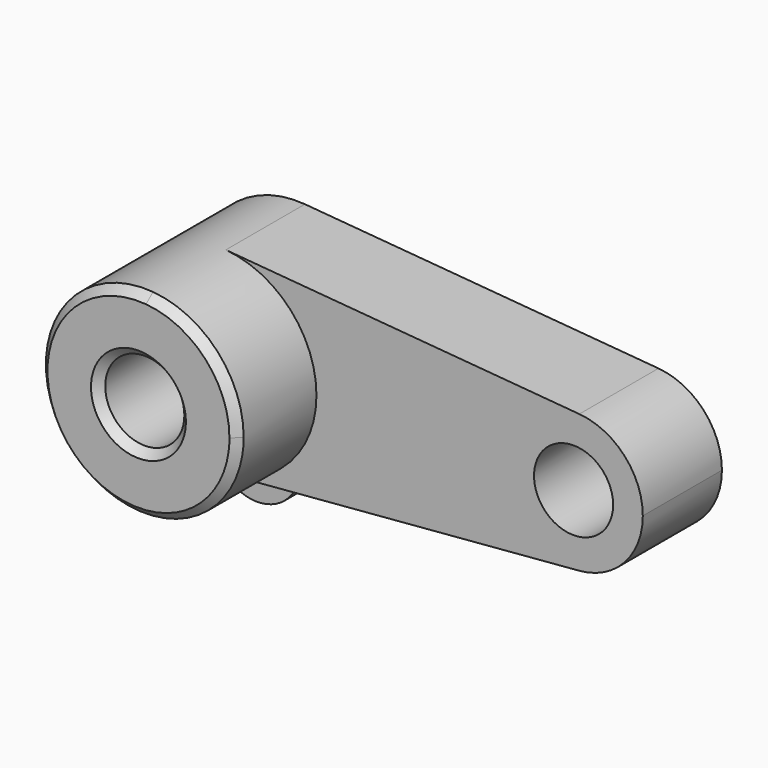
from build123d import *

# Parameters (mm, degrees)
F0_R     = 10
F1_DEPTH = 25
F2_DEPTH = 50
F3_SIZE  = 2
F5_DEPTH = 12.5
F6_DEPTH = 25


with BuildPart() as f1:
    # F0 (on Front) → F1 (new body)
    with BuildSketch(Plane.XZ):
        with BuildLine():
            ThreePointArc((2.0833333333, -24.9130432148), (18.3995018048, -16.9250800097), (25, 0))
            ThreePointArc((25, 0), (18.3995018048, 16.9250800097), (2.0833333333, 24.9130432148))
            ThreePointArc((2.0833333333, 24.9130432148), (-25, 0), (2.0833333333, -24.9130432148))
        make_face()
        Circle(F0_R, mode=Mode.SUBTRACT)
        with BuildLine():
            ThreePointArc((2.0833333333, 24.9130432148), (18.3995018048, 16.9250800097), (25, 0))
            ThreePointArc((25, 0), (18.3995018048, -16.9250800097), (2.0833333333, -24.9130432148))
            Line((2.0833333333, -24.9130432148), (91.4583333333, -17.4391302504))
            ThreePointArc((91.4583333333, -17.4391302504), (72.5, 0), (91.4583333333, 17.4391302504))
            Line((91.4583333333, 17.4391302504), (2.0833333333, 24.9130432148))
        make_face()
        with BuildLine():
            ThreePointArc((107.5, 0), (102.8796512634, 11.8475560068), (91.4583333333, 17.4391302504))
            ThreePointArc((91.4583333333, 17.4391302504), (72.5, 0), (91.4583333333, -17.4391302504))
            ThreePointArc((91.4583333333, -17.4391302504), (102.8796512634, -11.8475560068), (107.5, 0))
        make_face()
        with Locations((90, 0)):
            Circle(F0_R, mode=Mode.SUBTRACT)
    extrude(amount=F1_DEPTH)

    # F0 (on Front) → F2 (join)
    with BuildSketch(Plane.XZ):
        with BuildLine():
            ThreePointArc((2.0833333333, -24.9130432148), (18.3995018048, -16.9250800097), (25, 0))
            ThreePointArc((25, 0), (18.3995018048, 16.9250800097), (2.0833333333, 24.9130432148))
            ThreePointArc((2.0833333333, 24.9130432148), (-25, 0), (2.0833333333, -24.9130432148))
        make_face()
        Circle(F0_R, mode=Mode.SUBTRACT)
    extrude(amount=F2_DEPTH)

    # F3
    f3_edges = [f1.edges().sort_by_distance(p)[0] for p in [
        (-2.083333, -50, 24.913043),
        (-10, -50, 0),
        (80, -25, 0),
    ]]
    chamfer(f3_edges, length=F3_SIZE)

    # F4 (on face) → F5 (join, symmetric)
    with BuildSketch(Plane.XZ):
        with BuildLine():
            ThreePointArc((-5.4315853461, -16.6855811303), (-4.4015799273, -15.1101718832), (-4.0405321611, -13.2628846914))
            ThreePointArc((-4.0405321611, -13.2628846914), (-13.0639901523, -10.5943657369), (-6.9433212415, -17.7414770144))
            ThreePointArc((-6.9433212415, -17.7414770144), (-6.2099361746, -17.1813401242), (-5.4315853461, -16.6855811303))
        make_face()
        with BuildLine():
            ThreePointArc((-5.4315853461, -16.6855811303), (-6.2099361746, -17.1813401242), (-6.9433212415, -17.7414770144))
            ThreePointArc((-6.9433212415, -17.7414770144), (-6.1374016791, -17.2851884317), (-5.4315853461, -16.6855811303))
        make_face()
        with BuildLine():
            ThreePointArc((-5.4315853461, -16.6855811303), (-6.1374016791, -17.2851884317), (-6.9433212415, -17.7414770144))
            ThreePointArc((-6.9433212415, -17.7414770144), (-4.5995107108, -35.8932904795), (10.8448163239, -26.0721631348))
            ThreePointArc((10.8448163239, -26.0721631348), (5.4178176267, -16.6776278476), (-5.4315853461, -16.6855811303))
        make_face()
    extrude(amount=F5_DEPTH, both=True)

    # F0 (on Front) + F5_face (on face) → F6 (join)
    with BuildSketch(Plane.XZ):
        with BuildLine():
            ThreePointArc((2.0833333333, -24.9130432148), (18.3995018048, -16.9250800097), (25, 0))
            ThreePointArc((25, 0), (18.3995018048, 16.9250800097), (2.0833333333, 24.9130432148))
            ThreePointArc((2.0833333333, 24.9130432148), (-25, 0), (2.0833333333, -24.9130432148))
        make_face()
        Circle(F0_R, mode=Mode.SUBTRACT)
        with BuildLine():
            ThreePointArc((2.0833333333, 24.9130432148), (18.3995018048, 16.9250800097), (25, 0))
            ThreePointArc((25, 0), (18.3995018048, -16.9250800097), (2.0833333333, -24.9130432148))
            Line((2.0833333333, -24.9130432148), (91.4583333333, -17.4391302504))
            ThreePointArc((91.4583333333, -17.4391302504), (72.5, 0), (91.4583333333, 17.4391302504))
            Line((91.4583333333, 17.4391302504), (2.0833333333, 24.9130432148))
        make_face()
        with BuildLine():
            ThreePointArc((107.5, 0), (102.8796512634, 11.8475560068), (91.4583333333, 17.4391302504))
            ThreePointArc((91.4583333333, 17.4391302504), (72.5, 0), (91.4583333333, -17.4391302504))
            ThreePointArc((91.4583333333, -17.4391302504), (102.8796512634, -11.8475560068), (107.5, 0))
        make_face()
        with Locations((90, 0)):
            Circle(F0_R, mode=Mode.SUBTRACT)
    with BuildSketch(Plane(origin=(-1.518445143, 12.5, -23.8981911908), x_dir=(1, 0, 0), z_dir=(0, 1, 0))):
        with BuildLine():
            ThreePointArc((-3.9131402031, -7.2126100605), (7.7283813175, 11.0647949546), (-5.4248760985, -6.1567141764))
            ThreePointArc((-5.4248760985, -6.1567141764), (-10.2378400686, -14.6576102398), (-3.9131402031, -7.2126100605))
        make_face()
    extrude(amount=F6_DEPTH, dir=(0, -1, 0))


solid = f1.part
